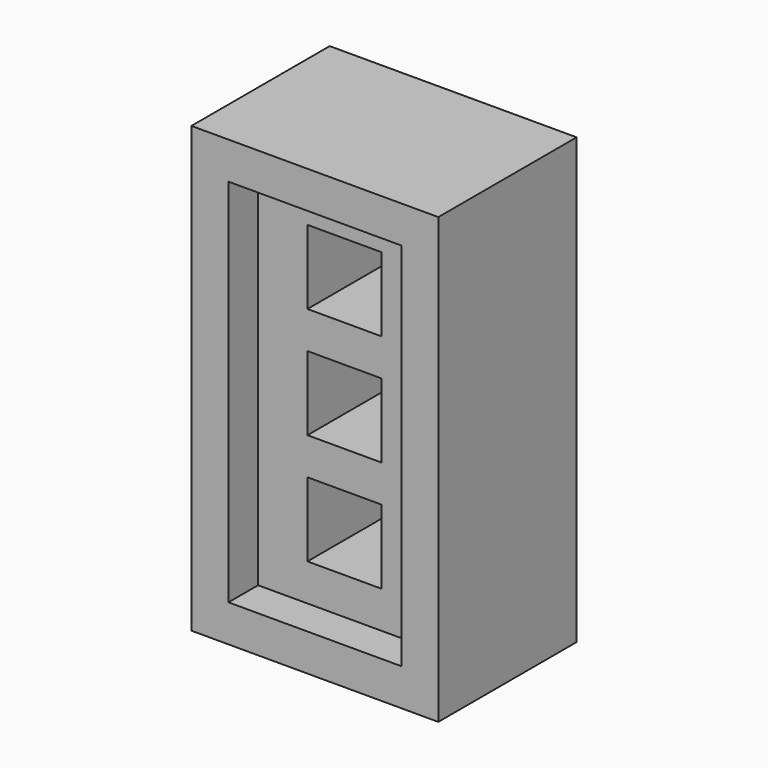
from build123d import *

# Parameters (mm, degrees)
F0_W     = 63.5
F0_H     = 114.3
F0_W_2   = 44.45
F0_H_2   = 95.25
F0_W_3   = 19.05
F0_H_3   = 19.05
F1_DEPTH = 44.45
F2_DEPTH = 44.451
F3_DEPTH = 9.525
F4_W     = 44.45
F4_H     = 95.25
F4_W_2   = 19.05
F4_H_2   = 19.05
F5_DEPTH = 9.525


with BuildPart() as f1:
    # F0 (on Front) → F1 (new body)
    with BuildSketch(Plane.XZ):
        with Locations((1.7462493032, -2.8575013936)):
            Rectangle(F0_W, F0_H)
        with Locations((1.7462493032, -2.8575013936)):
            Rectangle(F0_W_2, F0_H_2, mode=Mode.SUBTRACT)
        with Locations((1.7462493032, -2.8575013936)):
            Rectangle(F0_W_2, F0_H_2)
        with Locations((1.7462493032, -31.4325013936)):
            Rectangle(F0_W_3, F0_H_3, mode=Mode.SUBTRACT)
        with Locations((1.7462493032, -2.8575013936)):
            Rectangle(F0_W_3, F0_H_3, mode=Mode.SUBTRACT)
        with Locations((1.7462493032, 25.7174986064)):
            Rectangle(F0_W_3, F0_H_3, mode=Mode.SUBTRACT)
        with Locations((1.7462493032, -31.4325013936)):
            Rectangle(F0_W_3, F0_H_3)
        with Locations((1.7462493032, 25.7174986064)):
            Rectangle(F0_W_3, F0_H_3)
        with Locations((1.7462493032, -2.8575013936)):
            Rectangle(F0_W_3, F0_H_3)
    extrude(amount=F1_DEPTH)

    # F0 (on Front) → F2 (cut, through all)
    with BuildSketch(Plane.XZ):
        with Locations((1.7462493032, 25.7174986064)):
            Rectangle(F0_W_3, F0_H_3)
        with Locations((1.7462493032, -2.8575013936)):
            Rectangle(F0_W_3, F0_H_3)
        with Locations((1.7462493032, -31.4325013936)):
            Rectangle(F0_W_3, F0_H_3)
    extrude(amount=F2_DEPTH, mode=Mode.SUBTRACT)

    # F0 (on Front) → F3 (cut)
    with BuildSketch(Plane.XZ):
        with Locations((1.7462493032, -2.8575013936)):
            Rectangle(F0_W_2, F0_H_2)
        with Locations((1.7462493032, -31.4325013936)):
            Rectangle(F0_W_3, F0_H_3, mode=Mode.SUBTRACT)
        with Locations((1.7462493032, -2.8575013936)):
            Rectangle(F0_W_3, F0_H_3, mode=Mode.SUBTRACT)
        with Locations((1.7462493032, 25.7174986064)):
            Rectangle(F0_W_3, F0_H_3, mode=Mode.SUBTRACT)
    extrude(amount=F3_DEPTH, mode=Mode.SUBTRACT)

    # F4 (on face) → F5 (cut)
    with BuildSketch(Plane.XZ.offset(44.45)):
        with Locations((1.7462493032, -2.8575013936)):
            Rectangle(F4_W, F4_H)
        with Locations((1.7462493032, -31.4325013936)):
            Rectangle(F4_W_2, F4_H_2, mode=Mode.SUBTRACT)
        with Locations((1.7462493032, -2.8575013936)):
            Rectangle(F4_W_2, F4_H_2, mode=Mode.SUBTRACT)
        with Locations((1.7462493032, 25.7174986064)):
            Rectangle(F4_W_2, F4_H_2, mode=Mode.SUBTRACT)
    extrude(amount=-F5_DEPTH, mode=Mode.SUBTRACT)


solid = f1.part
